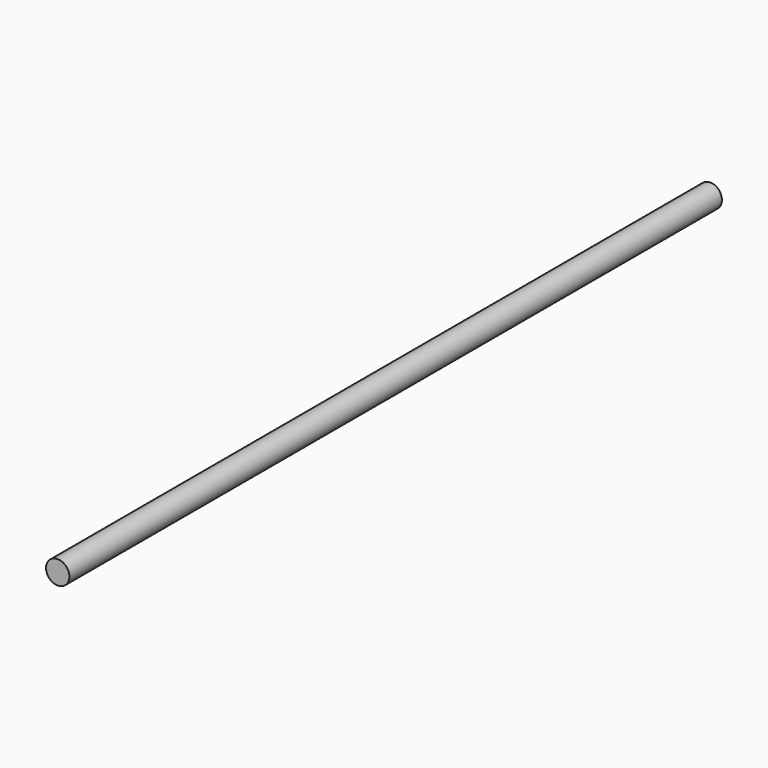
from build123d import *

# Parameters (mm, degrees)
F1_R = 5


with BuildPart() as f2:
    # F2: sweep along a path in F0
    with BuildLine(Plane.XY) as f2_path:
        Line((0, 0), (0, 350))
    # F1 (on Front) → F2 (sweep)
    with BuildSketch(Plane.XZ):
        Circle(F1_R)
    sweep(path=f2_path.line)


solid = f2.part
